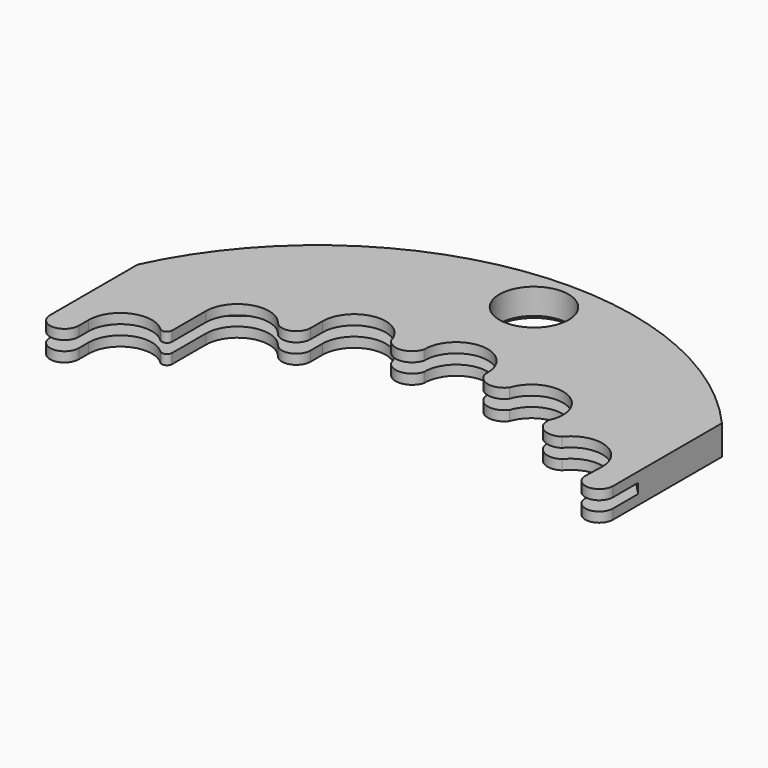
from build123d import *

# Parameters (mm, degrees)
F0_R     = 1.75
F1_DEPTH = 0.75
F2_SIZE  = 0.2
F3_R     = 16
F4_DEPTH = 0.25


with BuildPart() as f1:
    # F0 (on Top) → F1 (new body, symmetric)
    with BuildSketch(Plane.XY):
        with BuildLine():
            ThreePointArc((-1.1283810214, 13.4527601729), (0.5269824002, 15.090801488), (2.0640494537, 13.3412780442))
            ThreePointArc((2.0640494537, 13.3412780442), (2.7028519806, 12.7159188095), (3.5407836432, 13.0273885024))
            ThreePointArc((3.5407836432, 13.0273885024), (5.6565595606, 14.000476204), (6.5025578694, 11.83075404))
            ThreePointArc((6.5025578694, 11.83075404), (6.888950435, 11.02462525), (7.7828775441, 11.0307215147))
            ThreePointArc((7.7828775441, 11.0307215147), (9.5873041905, 11.5334676573), (10.6323680347, 9.9789417592))
            Line((10.6323680347, 9.9789417592), (10.6003916286, 9.0234121058))
            ThreePointArc((10.6003916286, 9.0234121058), (11.2882923094, 8.300097914), (12, 9))
            Line((12, 9), (12, 15.8830052443))
            ThreePointArc((12, 15.8830052443), (-2.2823101594, 21.1363840676), (-14.5, 12.0638746292))
            Line((-14.5, 12.0638746292), (-14.5, 6.5256753509))
            ThreePointArc((-14.5, 6.5256753509), (-13.7743246491, 5.8), (-13.0486492981, 6.5256753509))
            Line((-13.0486492981, 6.5256753509), (-13.0486492981, 7.1539100671))
            ThreePointArc((-13.0486492981, 7.1539100671), (-12.082392441, 8.6230491446), (-10.3506872621, 8.3177310875))
            ThreePointArc((-10.3506872621, 8.3177310875), (-10.0687469644, 8.2680220118), (-9.9114299169, 8.5072137136))
            Line((-9.9114299169, 8.5072137136), (-9.9114299169, 10.6381451737))
            ThreePointArc((-9.9114299169, 10.6381451737), (-8.8408160288, 12.1480293893), (-7.0617419862, 11.6372848416))
            ThreePointArc((-7.0617419862, 11.6372848416), (-6.2563808661, 11.4060781626), (-5.7717294241, 12.0895809365))
            Line((-5.7717294241, 12.0895809365), (-5.7717294241, 12.83926297))
            ThreePointArc((-5.7717294241, 12.83926297), (-4.3750702496, 14.42628928), (-2.6234137882, 13.24264702))
            ThreePointArc((-2.6234137882, 13.24264702), (-1.8092503125, 12.8734848936), (-1.1283810214, 13.4527601729))
        make_face()
        with Locations((0, 19)):
            Circle(F0_R, mode=Mode.SUBTRACT)
    extrude(amount=F1_DEPTH, both=True)

    # F2
    f2_edges = [f1.edges().sort_by_distance(p)[0] for p in [
        (-1.75, 19, -0.75),
    ]]
    chamfer(f2_edges, length=F2_SIZE)

    # F3 (on Top) → F4 (cut, symmetric)
    with BuildSketch(Plane.XY):
        Circle(F3_R)
    extrude(amount=F4_DEPTH, both=True, mode=Mode.SUBTRACT)


solid = f1.part
